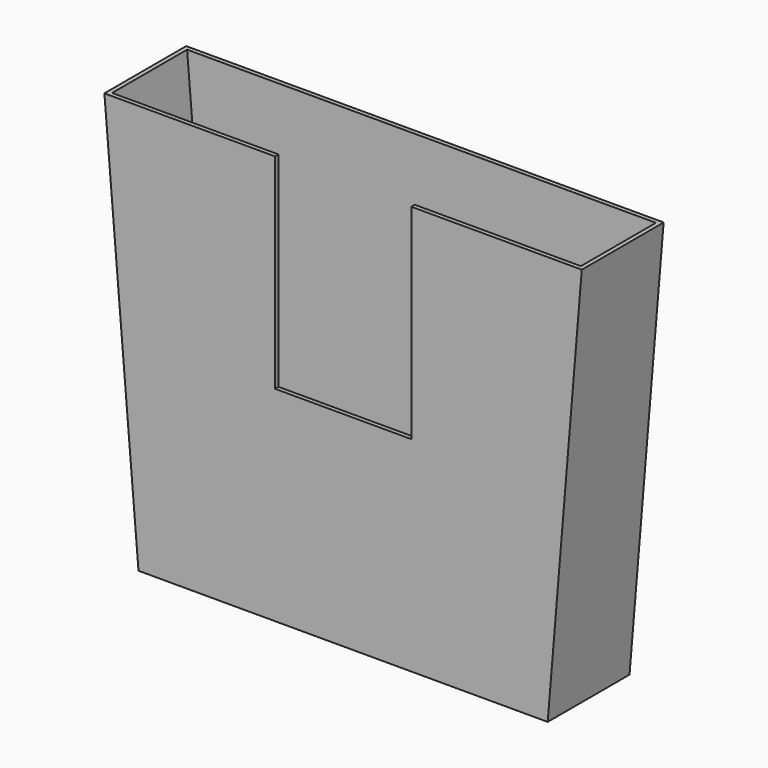
from build123d import *

# Parameters (mm, degrees)
F1_DEPTH = 76.2
F2_T     = -3.175
F3_W     = 50.8
F3_H     = 76.2
F4_DEPTH = 25.4


with BuildPart() as f1:
    # F0 (on Front) → F1 (new body)
    with BuildSketch(Plane.XZ):
        Polygon((177.8, 0), (0, 0), (-177.8, 0), (-152.4, -304.8), (0, -304.8), (152.4, -304.8), align=None)
    extrude(amount=F1_DEPTH)

    # F2
    f2_openings = [f1.faces().sort_by_distance(p)[0] for p in [
        (0, -38.1, 0),
    ]]
    offset(amount=F2_T, openings=f2_openings)

    # F3 (on face) → F4 (cut)
    with BuildSketch(Plane.XZ.offset(76.2)):
        with Locations((-25.4, -114.3)):
            Rectangle(F3_W, F3_H)
        with Locations((-25.4, -38.1)):
            Rectangle(F3_W, F3_H)
        with Locations((25.4, -38.1)):
            Rectangle(F3_W, F3_H)
        with Locations((25.4, -114.3)):
            Rectangle(F3_W, F3_H)
    extrude(amount=-F4_DEPTH, mode=Mode.SUBTRACT)


solid = f1.part
